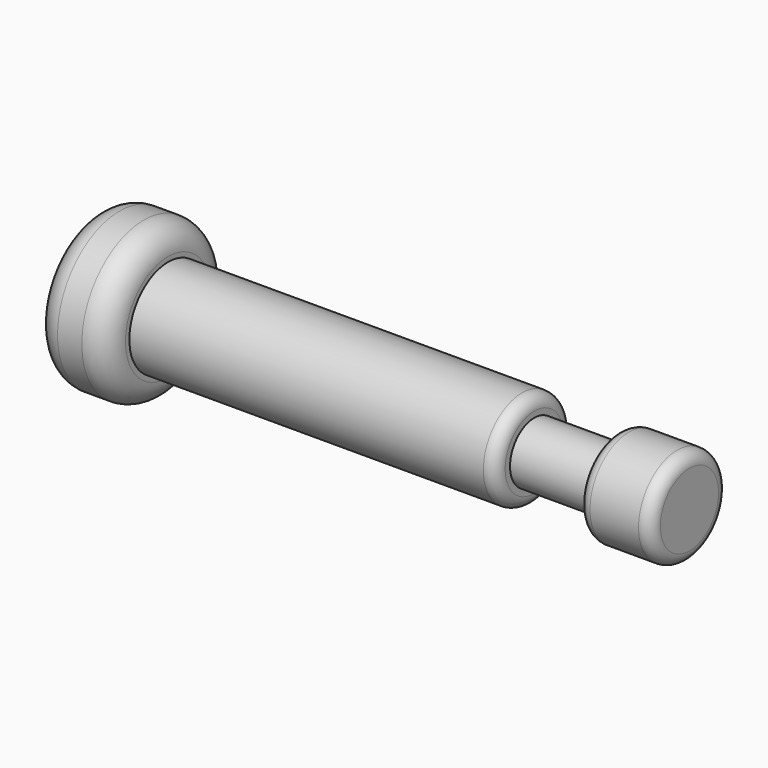
from build123d import *

# Parameters (mm, degrees)
SKETCH_R     = 2
PAD_DEPTH    = 15.1
SKETCH001_R  = 3.2
PAD001_DEPTH = 3
SKETCH002_R  = 1.25
PAD002_DEPTH = 3.4
SKETCH003_R  = 2
PAD003_DEPTH = 3
FILLET_R     = 0.5
FILLET001_R  = 0.5
FILLET002_R  = 0.5
FILLET003_R  = 1
FILLET004_R  = 1


with BuildPart() as part:
    # Sketch → Pad (new body)
    with BuildSketch(Plane.YZ):
        Circle(SKETCH_R)
    extrude(amount=PAD_DEPTH)

    # Sketch001 → Pad001 (join)
    with BuildSketch(Plane(origin=(0, 0, 0), x_dir=(0, 1, 0), z_dir=(-1, 0, 0))):
        Circle(SKETCH001_R)
    extrude(amount=PAD001_DEPTH)

    # Sketch002 → Pad002 (join)
    with BuildSketch(Plane.YZ.offset(15.1)):
        Circle(SKETCH002_R)
    extrude(amount=PAD002_DEPTH)

    # Sketch003 → Pad003 (join)
    with BuildSketch(Plane.YZ.offset(18.5)):
        Circle(SKETCH003_R)
    extrude(amount=PAD003_DEPTH)

    # Fillet
    fillet_edges = [part.edges().sort_by_distance(p)[0] for p in [
        (18.5, -2, 0),
    ]]
    fillet(fillet_edges, radius=FILLET_R)

    # Fillet001
    fillet001_edges = [part.edges().sort_by_distance(p)[0] for p in [
        (21.5, -2, 0),
    ]]
    fillet(fillet001_edges, radius=FILLET001_R)

    # Fillet002
    fillet002_edges = [part.edges().sort_by_distance(p)[0] for p in [
        (15.1, -2, 0),
    ]]
    fillet(fillet002_edges, radius=FILLET002_R)

    # Fillet003
    fillet003_edges = [part.edges().sort_by_distance(p)[0] for p in [
        (-3, -3.2, 0),
    ]]
    fillet(fillet003_edges, radius=FILLET003_R)

    # Fillet004
    fillet004_edges = [part.edges().sort_by_distance(p)[0] for p in [
        (0, -3.2, 0),
    ]]
    fillet(fillet004_edges, radius=FILLET004_R)


solid = part.part
